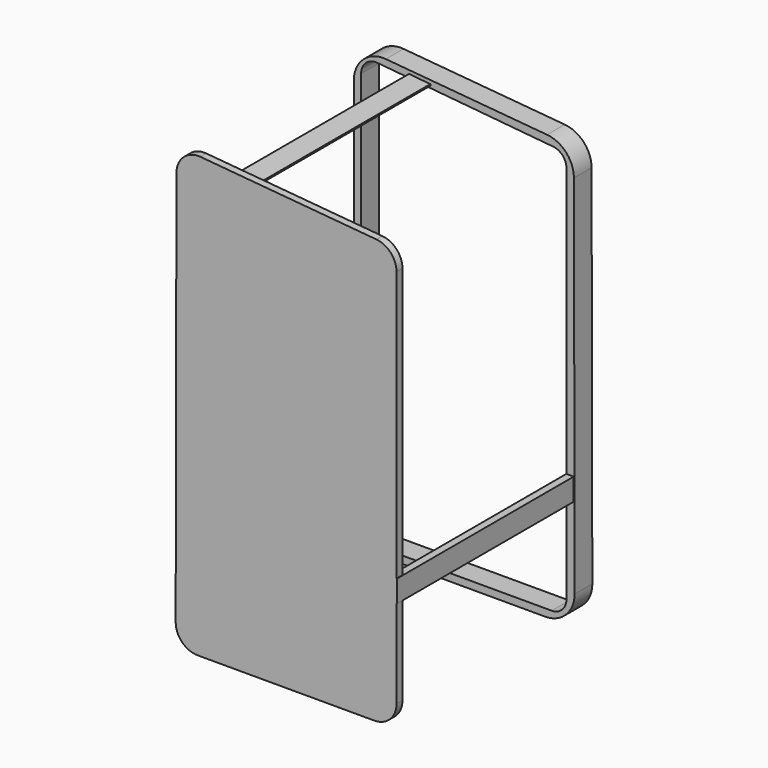
from build123d import *

# Parameters (mm, degrees)
F1_DEPTH = 30
F3_DEPTH = 30
F4_W     = 10
F4_H     = 30
F5_DEPTH = 300
F7_DEPTH = 300
F9_DEPTH = 10


with BuildPart() as f1:
    # F0 (on Front) → F1 (new body)
    with BuildSketch(Plane.XZ):
        with BuildLine():
            ThreePointArc((-112.750921, 334.7103), (-143.273633, 324.362328), (-156.257588, 294.864305))
            Line((-156.257588, 294.864305), (-156.257588, -221.460874))
            ThreePointArc((-156.257588, -221.460874), (-144.541859, -249.745146), (-116.257588, -261.460874))
            Line((-116.257588, -261.460874), (103.661798, -261.460874))
            ThreePointArc((103.661798, -261.460874), (131.974528, -249.716659), (143.661717, -221.380342))
            Line((143.661717, -221.380342), (142.660979, 275.678792))
            ThreePointArc((142.660979, 275.678792), (132.131872, 302.643985), (106.167727, 315.444255))
            Line((106.167727, 315.444255), (-112.750921, 334.7103))
        make_face()
    extrude(amount=-F1_DEPTH)

    # F2 (on face) → F3 (cut)
    with BuildSketch(Plane.XZ):
        with BuildLine():
            ThreePointArc((-124.379017, 326.474977), (-139.719174, 321.354805), (-146.257588, 306.563398))
            Line((-146.257588, 306.563398), (-146.257588, -231.460874))
            ThreePointArc((-146.257588, -231.460874), (-140.399724, -245.60301), (-126.257588, -251.460874))
            Line((-126.257588, -251.460874), (112.504515, -251.460874))
            ThreePointArc((112.504515, -251.460874), (126.64665, -245.60301), (132.504515, -231.460874))
            Line((132.504515, -231.460874), (132.504515, 284.037225))
            ThreePointArc((132.504515, 284.037225), (127.295922, 297.498811), (114.383086, 303.948804))
            Line((114.383086, 303.948804), (-124.379017, 326.474977))
        make_face()
    extrude(amount=-F3_DEPTH, mode=Mode.SUBTRACT)

    # F6 (on Front) → F7 (join)
    with BuildSketch(Plane.XZ):
        Polygon((-52.401509, 324.350622), (-81.257588, 327.236228), (-81.257588, 325.236228), (-52.401509, 322.350622), align=None)
    extrude(amount=F7_DEPTH)


with BuildPart() as f5:
    # F4 (on Front) → F5 (new body)
    with BuildSketch(Plane.XZ):
        with Locations((137.355371, -96.460874)):
            Rectangle(F4_W, F4_H)
    extrude(amount=F5_DEPTH)


with BuildPart() as f9:
    # F8 (on face) → F9 (new body)
    with BuildSketch(Plane.XZ.offset(300)):
        with BuildLine():
            ThreePointArc((-158.098102, -231.095712), (-149.33177, -252.34624), (-128.098158, -261.153464))
            Line((-128.098158, -261.153464), (111.844035, -261.153464))
            ThreePointArc((111.844035, -261.153464), (133.057238, -252.366668), (141.844035, -231.153464))
            Line((141.844035, -231.153464), (141.844035, 285.069638))
            ThreePointArc((141.844035, 285.069638), (133.967552, 305.331672), (114.474035, 314.954134))
            Line((114.474035, 314.954134), (-124.433917, 335.979348))
            ThreePointArc((-124.433917, 335.979348), (-147.304646, 328.237862), (-157.063861, 306.152604))
            Line((-157.063861, 306.152604), (-158.098102, -231.095712))
        make_face()
    extrude(amount=-F9_DEPTH)


solid = Compound([f1.part, f5.part, f9.part])
